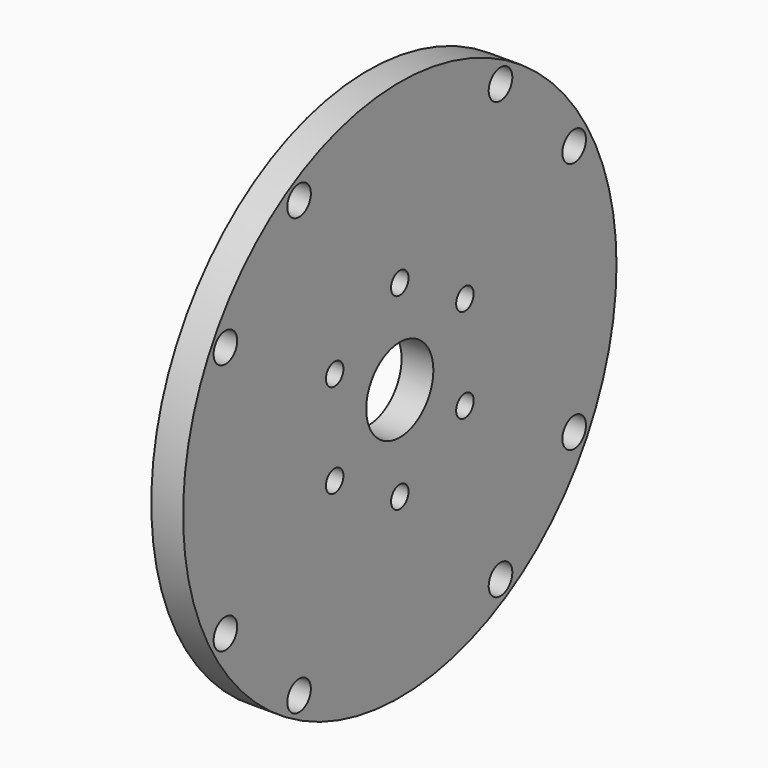
from build123d import *

# Parameters (mm, degrees)
F0_R     = 27.051
F0_R_2   = 1.4732
F0_R_3   = 1.0922
F0_R_4   = 4.191
F1_DEPTH = 3.175


with BuildPart() as f1:
    # F0 (on Right) → F1 (new body)
    with BuildSketch(Plane.YZ):
        Circle(F0_R)
        with Locations((-12.573, -21.7678)):
            Circle(F0_R_2, mode=Mode.SUBTRACT)
        with Locations((-21.7678, -12.573)):
            Circle(F0_R_2, mode=Mode.SUBTRACT)
        with Locations((-8.128, -4.699)):
            Circle(F0_R_3, mode=Mode.SUBTRACT)
        with Locations((12.573, -21.7678)):
            Circle(F0_R_2, mode=Mode.SUBTRACT)
        with Locations((0, -9.398)):
            Circle(F0_R_3, mode=Mode.SUBTRACT)
        with Locations((8.128, -4.699)):
            Circle(F0_R_3, mode=Mode.SUBTRACT)
        with Locations((21.7678, -12.573)):
            Circle(F0_R_2, mode=Mode.SUBTRACT)
        with Locations((-21.7678, 12.573)):
            Circle(F0_R_2, mode=Mode.SUBTRACT)
        with Locations((-8.128, 4.699)):
            Circle(F0_R_3, mode=Mode.SUBTRACT)
        with Locations((-12.573, 21.7678)):
            Circle(F0_R_2, mode=Mode.SUBTRACT)
        Circle(F0_R_4, mode=Mode.SUBTRACT)
        with Locations((8.128, 4.699)):
            Circle(F0_R_3, mode=Mode.SUBTRACT)
        with Locations((0, 9.398)):
            Circle(F0_R_3, mode=Mode.SUBTRACT)
        with Locations((21.7678, 12.573)):
            Circle(F0_R_2, mode=Mode.SUBTRACT)
        with Locations((12.573, 21.7678)):
            Circle(F0_R_2, mode=Mode.SUBTRACT)
    extrude(amount=-F1_DEPTH)


solid = f1.part
